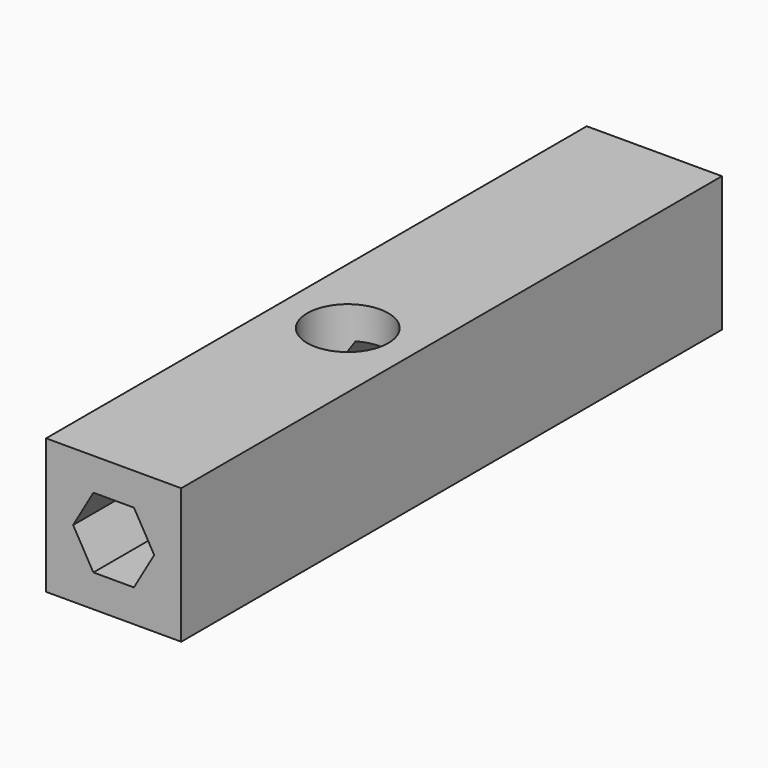
from build123d import *

# Parameters (mm, degrees)
F0_W     = 127
F0_H     = 127
F1_DEPTH = 635
F2_R     = 38.1
F3_DEPTH = 127.001
F5_DEPTH = 635.001


with BuildPart() as f1:
    # F0 (on Front) → F1 (new body)
    with BuildSketch(Plane.XZ):
        Rectangle(F0_W, F0_H)
    extrude(amount=F1_DEPTH)

    # F2 (on face) → F3 (cut, through all)
    with BuildSketch(Plane.XY.offset(63.5)):
        with Locations((0, -360.032264)):
            Circle(F2_R)
    extrude(amount=-F3_DEPTH, mode=Mode.SUBTRACT)

    # F4 (on face) → F5 (cut, through all)
    with BuildSketch(Plane.XZ.offset(635)):
        Polygon((19.05, -32.995568), (38.1, 0), (19.05, 32.995568), (-19.05, 32.995568), (-38.1, 0), (-19.05, -32.995568), align=None)
    extrude(amount=-F5_DEPTH, mode=Mode.SUBTRACT)


solid = f1.part
